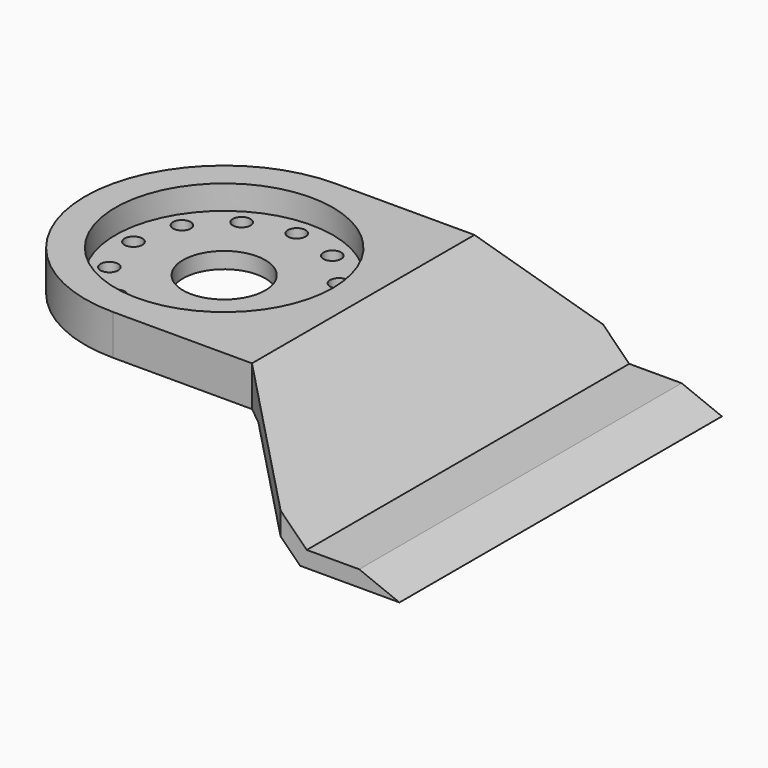
from build123d import *

# Parameters (mm, degrees)
PAD001_DEPTH    = 30
PAD_DEPTH       = 15
SKETCH001_R     = 13.5
POCKET_DEPTH    = 3
SKETCH003_R     = 5.1
SKETCH003_R_2   = 1.1
POCKET001_DEPTH = 5


with BuildPart() as profile_pad:
    # Sketch002 → Pad001 (new body, symmetric)
    with BuildSketch(Plane.XZ):
        Polygon((19.421573, 10), (-17.25, 10), (-17.25, 15), (17.25, 15), (30.25, 2), (36.75, 2), (41.75, 0), (29.421573, 0), align=None)
    extrude(amount=PAD001_DEPTH, both=True)


with BuildPart() as holes:
    # Sketch → Pad (new body)
    with BuildSketch(Plane.XY):
        with BuildLine():
            ThreePointArc((0, 17.25), (-17.250031, 0), (0, -17.25))
            Line((0, -17.25), (17.25, -17.25))
            Line((17.25, -17.25), (27, -25))
            Line((27, -25), (47, -25))
            Line((47, -25), (47, 25))
            Line((47, 25), (27, 25))
            Line((17.25, 17.25), (27, 25))
            Line((17.25, 17.25), (0, 17.25))
        make_face()
    extrude(amount=PAD_DEPTH)

    # Common: intersect Profile Pad
    add(profile_pad.part, mode=Mode.INTERSECT)

    # Sketch001 → Pocket (cut)
    with BuildSketch(Plane.XY.offset(15)):
        Circle(SKETCH001_R)
    extrude(amount=-POCKET_DEPTH, mode=Mode.SUBTRACT)

    # Sketch003 → Pocket001 (cut)
    with BuildSketch(Plane.XY.offset(12)):
        Circle(SKETCH003_R)
        with Locations((-11.25, 0)):
            Circle(SKETCH003_R_2)
        with Locations((0, 11.25)):
            Circle(SKETCH003_R_2)
        with Locations((11.25, 0)):
            Circle(SKETCH003_R_2)
        with Locations((0, -11.25)):
            Circle(SKETCH003_R_2)
        with Locations((-5.625, 9.742786)):
            Circle(SKETCH003_R_2)
        with Locations((-9.742786, 5.625)):
            Circle(SKETCH003_R_2)
        with Locations((-9.742786, -5.625)):
            Circle(SKETCH003_R_2)
        with Locations((-5.625, -9.742786)):
            Circle(SKETCH003_R_2)
        with Locations((5.625, -9.742786)):
            Circle(SKETCH003_R_2)
        with Locations((9.742786, -5.625)):
            Circle(SKETCH003_R_2)
        with Locations((5.625, 9.742786)):
            Circle(SKETCH003_R_2)
        with Locations((9.742786, 5.625)):
            Circle(SKETCH003_R_2)
    extrude(amount=-POCKET001_DEPTH, mode=Mode.SUBTRACT)


solid = holes.part
